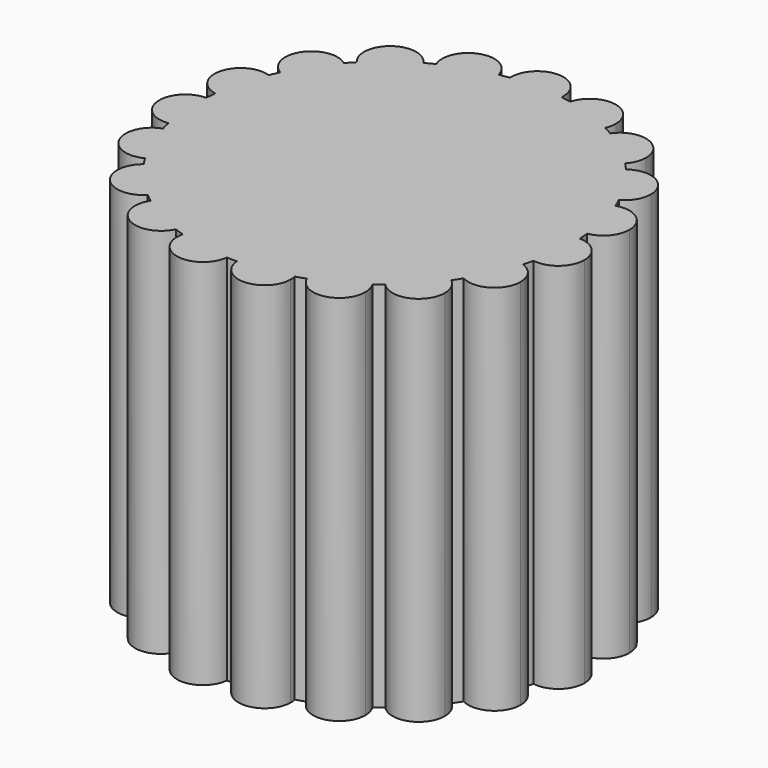
from build123d import *

# Parameters (mm, degrees)
F1_DEPTH = 100


with BuildPart() as f1:
    # F0 (on Top) → F1 (new body)
    with BuildSketch(Plane.XY):
        with BuildLine():
            ThreePointArc((49.2884179596, -11.5958340243), (50.2965501676, -5.8368272994), (50.6340943603, 0))
            ThreePointArc((50.6340943603, 0), (50.6207684627, 1.161598866), (50.5807977844, 2.3225863122))
            ThreePointArc((50.5807977844, 2.3225863122), (43.4412919228, -4.0336940461), (49.2884179596, -11.5958340243))
        make_face()
        with BuildLine():
            ThreePointArc((50.5807977844, 2.3225863122), (50.6207684627, 1.161598866), (50.6340943603, 0))
            ThreePointArc((50.6340943603, 0), (50.2965501676, -5.8368272994), (49.2884179596, -11.5958340243))
            ThreePointArc((49.2884179596, -11.5958340243), (54.9545502266, -10.0195708321), (57.4231482248, -4.6814359106))
            ThreePointArc((57.4231482248, -4.6814359106), (55.4286593665, 0.2143297815), (50.5807977844, 2.3225863122))
        make_face()
        with BuildLine():
            ThreePointArc((49.2884179596, -11.5958340243), (43.4412919228, -4.0336940461), (50.5807977844, 2.3225863122))
            ThreePointArc((50.5807977844, 2.3225863122), (50.5001299163, 3.6808137845), (50.382996675, 5.0363833974))
            ThreePointArc((50.382996675, 5.0363833974), (42.397261218, 10.2902270524), (47.0860481007, 18.6203003719))
            ThreePointArc((47.0860481007, 18.6203003719), (46.5687353009, 19.8787425195), (46.017795928, 21.1228305304))
            ThreePointArc((46.017795928, 21.1228305304), (36.758829399, 23.4990423804), (38.48879449, 32.9002159627))
            ThreePointArc((38.48879449, 32.9002159627), (37.5908956273, 33.922501052), (36.6658529524, 34.9202912209))
            ThreePointArc((36.6658529524, 34.9202912209), (27.1370080426, 34.1613718412), (25.7206827811, 43.6148826544))
            ThreePointArc((25.7206827811, 43.6148826544), (24.5394991296, 44.2902302337), (23.3405958801, 44.9335965136))
            ThreePointArc((23.3405958801, 44.9335965136), (14.5744707907, 41.1217865948), (10.1653359954, 49.6032000559))
            ThreePointArc((10.1653359954, 49.6032000559), (8.8288671316, 49.8584257358), (7.4860230776, 50.0776494073))
            ThreePointArc((7.4860230776, 50.0776494073), (0.4325634824, 43.6260177006), (-6.4915826769, 50.2162410584))
            ThreePointArc((-6.4915826769, 50.2162410584), (-7.838509614, 50.0236871763), (-9.179776483, 49.795011953))
            ThreePointArc((-9.179776483, 49.795011953), (-9.0146366457, 48.9300740554), (-8.959298633, 48.0512530059))
            ThreePointArc((-8.959298633, 48.0512530059), (-14.6076596491, 41.1781105865), (-22.4450376388, 45.3875731569))
            ThreePointArc((-22.4450376388, 45.3875731569), (-23.656462216, 44.7681059138), (-24.8508048228, 44.1163123044))
            ThreePointArc((-24.8508048228, 44.1163123044), (-23.9912589829, 42.2746668759), (-23.696474734, 40.263801594))
            ThreePointArc((-23.696474734, 40.263801594), (-28.2320691914, 33.7078487551), (-35.966224502, 35.6404574432))
            ThreePointArc((-35.966224502, 35.6404574432), (-36.910870069, 34.6612057267), (-37.8288628601, 33.6569256825))
            ThreePointArc((-37.8288628601, 33.6569256825), (-35.8238617515, 31.2012008735), (-35.1065686444, 28.1131425222))
            ThreePointArc((-35.1065686444, 28.1131425222), (-38.5967809177, 22.0532085671), (-45.5899128668, 22.0311451468))
            ThreePointArc((-45.5899128668, 22.0311451468), (-46.1654124189, 20.7982260752), (-46.7075766311, 19.5502889219))
            ThreePointArc((-46.7075766311, 19.5502889219), (-43.2644592903, 16.9970054766), (-41.9531196433, 12.9159882377))
            ThreePointArc((-41.9531196433, 12.9159882377), (-44.4938494078, 7.5173723677), (-50.2732267722, 6.0344164253))
            ThreePointArc((-50.2732267722, 6.0344164253), (-50.417216003, 4.6814359106), (-50.5247997315, 3.3250750026))
            ThreePointArc((-50.5247997315, 3.3250750026), (-45.5549175223, 1.2818428301), (-43.4941976945, -3.6808137845))
            ThreePointArc((-43.4941976945, -3.6808137845), (-45.2072440334, -8.2708514016), (-49.5086564873, -10.6162349495))
            ThreePointArc((-49.5086564873, -10.6162349495), (-49.2055319295, -11.9426604748), (-48.8668768079, -13.2604623871))
            ThreePointArc((-48.8668768079, -13.2604623871), (-42.5077955906, -14.1698148649), (-39.5628030791, -19.8787425195))
            ThreePointArc((-39.5628030791, -19.8787425195), (-40.5925421217, -23.5349976229), (-43.3790550661, -26.1164525397))
            ThreePointArc((-43.3790550661, -26.1164525397), (-42.6616649689, -27.2725842883), (-41.9134695345, -28.4090229199))
            ThreePointArc((-41.9134695345, -28.4090229199), (-34.5250004498, -27.6230270218), (-30.5849634055, -33.922501052))
            ThreePointArc((-30.5849634055, -33.922501052), (-31.0944101229, -36.5452405336), (-32.548659933, -38.7865472586))
            ThreePointArc((-32.548659933, -38.7865472586), (-31.494744645, -39.6471004164), (-30.4180874825, -40.4790250079))
            ThreePointArc((-30.4180874825, -40.4790250079), (-22.5522781132, -37.5720430579), (-17.5335669078, -44.2902302337))
            ThreePointArc((-17.5335669078, -44.2902302337), (-17.6999284896, -45.8079125974), (-18.1911124518, -47.2535177468))
            ThreePointArc((-18.1911124518, -47.2535177468), (-16.9148800475, -47.7252380262), (-15.6264336665, -48.1624966395))
            ThreePointArc((-15.6264336665, -48.1624966395), (-7.9745264854, -42.9047800477), (-1.8229349098, -49.8584257358))
            ThreePointArc((-1.8229349098, -49.8584257358), (-1.8327770136, -50.229652563), (-1.8622756721, -50.5998363733))
            ThreePointArc((-1.8622756721, -50.5998363733), (-0.5020257355, -50.6316055626), (0.8585867063, -50.6268144421))
            ThreePointArc((0.8585867063, -50.6268144421), (6.7539426287, -43.1022132906), (14.6683675727, -48.4628775913))
            ThreePointArc((14.6683675727, -48.4628775913), (15.9652308548, -48.0512530059), (17.2505658872, -47.6049313439))
            ThreePointArc((17.2505658872, -47.6049313439), (20.3832611647, -38.5738148991), (29.6094655879, -41.0742140434))
            ThreePointArc((29.6094655879, -41.0742140434), (30.7024069558, -40.263801594), (31.7731785841, -39.424315268))
            ThreePointArc((31.7731785841, -39.424315268), (31.8037370746, -29.8653451289), (41.3419185685, -29.2345220717))
            ThreePointArc((41.3419185685, -29.2345220717), (42.1125008662, -28.1131425222), (42.8526743697, -26.9714629015))
            ThreePointArc((42.8526743697, -26.9714629015), (39.7777845866, -17.9205018054), (48.5943331862, -14.2268160132))
            ThreePointArc((48.5943331862, -14.2268160132), (48.9590518651, -12.9159882377), (49.2884179596, -11.5958340243))
        make_face()
        with BuildLine():
            ThreePointArc((47.0860481007, 18.6203003719), (42.397261218, 10.2902270524), (50.382996675, 5.0363833974))
            ThreePointArc((50.382996675, 5.0363833974), (49.2055319295, 11.9426604748), (47.0860481007, 18.6203003719))
        make_face()
        with BuildLine():
            ThreePointArc((47.0860481007, 18.6203003719), (49.2055319295, 11.9426604748), (50.382996675, 5.0363833974))
            ThreePointArc((50.382996675, 5.0363833974), (54.5596109585, 7.4241514233), (56.2114641513, 11.9426604748))
            ThreePointArc((56.2114641513, 11.9426604748), (53.3428091892, 17.5965107711), (47.0860481007, 18.6203003719))
        make_face()
        with BuildLine():
            ThreePointArc((53.1713446407, -20.7982260752), (51.914322775, -16.7940887131), (48.5943331862, -14.2268160132))
            ThreePointArc((48.5943331862, -14.2268160132), (46.1654124189, -20.7982260752), (42.8526743697, -26.9714629015))
            ThreePointArc((42.8526743697, -26.9714629015), (49.7622351874, -26.8103764616), (53.1713446407, -20.7982260752))
        make_face()
        with BuildLine():
            ThreePointArc((42.8526743697, -26.9714629015), (46.1654124189, -20.7982260752), (48.5943331862, -14.2268160132))
            ThreePointArc((48.5943331862, -14.2268160132), (39.7777845866, -17.9205018054), (42.8526743697, -26.9714629015))
        make_face()
        with BuildLine():
            ThreePointArc((38.48879449, 32.9002159627), (36.758829399, 23.4990423804), (46.017795928, 21.1228305304))
            ThreePointArc((46.017795928, 21.1228305304), (42.6616649689, 27.2725842883), (38.48879449, 32.9002159627))
        make_face()
        with BuildLine():
            ThreePointArc((38.48879449, 32.9002159627), (42.6616649689, 27.2725842883), (46.017795928, 21.1228305304))
            ThreePointArc((46.017795928, 21.1228305304), (48.6864434845, 23.696954255), (49.6675971907, 27.2725842883))
            ThreePointArc((49.6675971907, 27.2725842883), (45.8119219863, 33.5302968912), (38.48879449, 32.9002159627))
        make_face()
        with BuildLine():
            ThreePointArc((43.9168022908, -34.6612057267), (43.2404321295, -31.6579191239), (41.3419185685, -29.2345220717))
            ThreePointArc((41.3419185685, -29.2345220717), (36.910870069, -34.6612057267), (31.7731785841, -39.424315268))
            ThreePointArc((31.7731785841, -39.424315268), (39.4690694335, -41.183375788), (43.9168022908, -34.6612057267))
        make_face()
        with BuildLine():
            ThreePointArc((31.7731785841, -39.424315268), (36.910870069, -34.6612057267), (41.3419185685, -29.2345220717))
            ThreePointArc((41.3419185685, -29.2345220717), (31.8037370746, -29.8653451289), (31.7731785841, -39.424315268))
        make_face()
        with BuildLine():
            ThreePointArc((25.7206827811, 43.6148826544), (27.1370080426, 34.1613718412), (36.6658529524, 34.9202912209))
            ThreePointArc((36.6658529524, 34.9202912209), (31.494744645, 39.6471004164), (25.7206827811, 43.6148826544))
        make_face()
        with BuildLine():
            ThreePointArc((25.7206827811, 43.6148826544), (31.494744645, 39.6471004164), (36.6658529524, 34.9202912209))
            ThreePointArc((36.6658529524, 34.9202912209), (38.0258823947, 37.1118832675), (38.5006768668, 39.6471004164))
            ThreePointArc((38.5006768668, 39.6471004164), (33.5720506207, 46.3379812388), (25.7206827811, 43.6148826544))
        make_face()
        with BuildLine():
            ThreePointArc((30.6623944378, -44.7681059138), (30.3940220279, -42.8475918997), (29.6094655879, -41.0742140434))
            ThreePointArc((29.6094655879, -41.0742140434), (23.656462216, -44.7681059138), (17.2505658872, -47.6049313439))
            ThreePointArc((17.2505658872, -47.6049313439), (25.1062571665, -51.6223878527), (30.6623944378, -44.7681059138))
        make_face()
        with BuildLine():
            ThreePointArc((17.2505658872, -47.6049313439), (23.656462216, -44.7681059138), (29.6094655879, -41.0742140434))
            ThreePointArc((29.6094655879, -41.0742140434), (20.3832611647, -38.5738148991), (17.2505658872, -47.6049313439))
        make_face()
        with BuildLine():
            ThreePointArc((10.1653359954, 49.6032000559), (14.5744707907, 41.1217865948), (23.3405958801, 44.9335965136))
            ThreePointArc((23.3405958801, 44.9335965136), (16.9148800475, 47.7252380262), (10.1653359954, 49.6032000559))
        make_face()
        with BuildLine():
            ThreePointArc((10.1653359954, 49.6032000559), (16.9148800475, 47.7252380262), (23.3405958801, 44.9335965136))
            ThreePointArc((23.3405958801, 44.9335965136), (23.7742246188, 46.2995878769), (23.9208122693, 47.7252380262))
            ThreePointArc((23.9208122693, 47.7252380262), (17.8625714897, 54.6667772811), (10.1653359954, 49.6032000559))
        make_face()
        with BuildLine():
            ThreePointArc((14.8444418358, -50.0236871763), (14.8002841091, -49.2383323669), (14.6683675727, -48.4628775913))
            ThreePointArc((14.6683675727, -48.4628775913), (7.838509614, -50.0236871763), (0.8585867063, -50.6268144421))
            ThreePointArc((0.8585867063, -50.6268144421), (8.1403535237, -57.0231140493), (14.8444418358, -50.0236871763))
        make_face()
        with BuildLine():
            ThreePointArc((0.8585867063, -50.6268144421), (7.838509614, -50.0236871763), (14.6683675727, -48.4628775913))
            ThreePointArc((14.6683675727, -48.4628775913), (6.7539426287, -43.1022132906), (0.8585867063, -50.6268144421))
        make_face()
        with BuildLine():
            ThreePointArc((-6.4915826769, 50.2162410584), (0.4325634824, 43.6260177006), (7.4860230776, 50.0776494073))
            ThreePointArc((7.4860230776, 50.0776494073), (0.5020257355, 50.6316055626), (-6.4915826769, 50.2162410584))
        make_face()
        with BuildLine():
            ThreePointArc((-6.4915826769, 50.2162410584), (0.5020257355, 50.6316055626), (7.4860230776, 50.0776494073))
            ThreePointArc((7.4860230776, 50.0776494073), (7.5024720895, 50.3544104324), (7.5079579573, 50.6316055626))
            ThreePointArc((7.5079579573, 50.6316055626), (0.294252092, 57.6344561543), (-6.4915826769, 50.2162410584))
        make_face()
        with BuildLine():
            ThreePointArc((-15.6264336665, -48.1624966395), (-10.0504638739, -56.7570333994), (-1.8622756721, -50.5998363733))
            ThreePointArc((-1.8622756721, -50.5998363733), (-8.8288671316, -49.8584257358), (-15.6264336665, -48.1624966395))
        make_face()
        with BuildLine():
            ThreePointArc((-15.6264336665, -48.1624966395), (-8.8288671316, -49.8584257358), (-1.8622756721, -50.5998363733))
            ThreePointArc((-1.8622756721, -50.5998363733), (-1.8327770136, -50.229652563), (-1.8229349098, -49.8584257358))
            ThreePointArc((-1.8229349098, -49.8584257358), (-7.9745264854, -42.9047800477), (-15.6264336665, -48.1624966395))
        make_face()
        with BuildLine():
            ThreePointArc((-8.959298633, 48.0512530059), (-9.0146366457, 48.9300740554), (-9.179776483, 49.795011953))
            ThreePointArc((-9.179776483, 49.795011953), (-15.9652308548, 48.0512530059), (-22.4450376388, 45.3875731569))
            ThreePointArc((-22.4450376388, 45.3875731569), (-14.6076596491, 41.1781105865), (-8.959298633, 48.0512530059))
        make_face()
        with BuildLine():
            ThreePointArc((-22.4450376388, 45.3875731569), (-15.9652308548, 48.0512530059), (-9.179776483, 49.795011953))
            ThreePointArc((-9.179776483, 49.795011953), (-18.1742429184, 54.6998131507), (-22.4450376388, 45.3875731569))
        make_face()
        with BuildLine():
            ThreePointArc((-30.4180874825, -40.4790250079), (-27.9348806374, -50.4184004918), (-18.1911124518, -47.2535177468))
            ThreePointArc((-18.1911124518, -47.2535177468), (-24.5394991296, -44.2902302337), (-30.4180874825, -40.4790250079))
        make_face()
        with BuildLine():
            ThreePointArc((-30.4180874825, -40.4790250079), (-24.5394991296, -44.2902302337), (-18.1911124518, -47.2535177468))
            ThreePointArc((-18.1911124518, -47.2535177468), (-17.6999284896, -45.8079125974), (-17.5335669078, -44.2902302337))
            ThreePointArc((-17.5335669078, -44.2902302337), (-22.5522781132, -37.5720430579), (-30.4180874825, -40.4790250079))
        make_face()
        with BuildLine():
            ThreePointArc((-23.696474734, 40.263801594), (-23.9912589829, 42.2746668759), (-24.8508048228, 44.1163123044))
            ThreePointArc((-24.8508048228, 44.1163123044), (-30.7024069558, 40.263801594), (-35.966224502, 35.6404574432))
            ThreePointArc((-35.966224502, 35.6404574432), (-28.2320691914, 33.7078487551), (-23.696474734, 40.263801594))
        make_face()
        with BuildLine():
            ThreePointArc((-35.966224502, 35.6404574432), (-30.7024069558, 40.263801594), (-24.8508048228, 44.1163123044))
            ThreePointArc((-24.8508048228, 44.1163123044), (-34.9505126027, 45.8348593669), (-35.966224502, 35.6404574432))
        make_face()
        with BuildLine():
            ThreePointArc((-41.9134695345, -28.4090229199), (-42.7921196296, -38.6161515688), (-32.548659933, -38.7865472586))
            ThreePointArc((-32.548659933, -38.7865472586), (-37.5908956273, -33.922501052), (-41.9134695345, -28.4090229199))
        make_face()
        with BuildLine():
            ThreePointArc((-41.9134695345, -28.4090229199), (-37.5908956273, -33.922501052), (-32.548659933, -38.7865472586))
            ThreePointArc((-32.548659933, -38.7865472586), (-31.0944101229, -36.5452405336), (-30.5849634055, -33.922501052))
            ThreePointArc((-30.5849634055, -33.922501052), (-34.5250004498, -27.6230270218), (-41.9134695345, -28.4090229199))
        make_face()
        with BuildLine():
            ThreePointArc((-35.1065686444, 28.1131425222), (-35.8238617515, 31.2012008735), (-37.8288628601, 33.6569256825))
            ThreePointArc((-37.8288628601, 33.6569256825), (-42.1125008662, 28.1131425222), (-45.5899128668, 22.0311451468))
            ThreePointArc((-45.5899128668, 22.0311451468), (-38.5967809177, 22.0532085671), (-35.1065686444, 28.1131425222))
        make_face()
        with BuildLine():
            ThreePointArc((-45.5899128668, 22.0311451468), (-42.1125008662, 28.1131425222), (-37.8288628601, 33.6569256825))
            ThreePointArc((-37.8288628601, 33.6569256825), (-47.9393519334, 32.0029873696), (-45.5899128668, 22.0311451468))
        make_face()
        with BuildLine():
            ThreePointArc((-48.8668768079, -13.2604623871), (-53.0121684717, -22.6292434321), (-43.3790550661, -26.1164525397))
            ThreePointArc((-43.3790550661, -26.1164525397), (-46.5687353009, -19.8787425195), (-48.8668768079, -13.2604623871))
        make_face()
        with BuildLine():
            ThreePointArc((-48.8668768079, -13.2604623871), (-46.5687353009, -19.8787425195), (-43.3790550661, -26.1164525397))
            ThreePointArc((-43.3790550661, -26.1164525397), (-40.5925421217, -23.5349976229), (-39.5628030791, -19.8787425195))
            ThreePointArc((-39.5628030791, -19.8787425195), (-42.5077955906, -14.1698148649), (-48.8668768079, -13.2604623871))
        make_face()
        with BuildLine():
            ThreePointArc((-41.9531196433, 12.9159882377), (-43.2644592903, 16.9970054766), (-46.7075766311, 19.5502889219))
            ThreePointArc((-46.7075766311, 19.5502889219), (-48.9590518651, 12.9159882377), (-50.2732267722, 6.0344164253))
            ThreePointArc((-50.2732267722, 6.0344164253), (-44.4938494078, 7.5173723677), (-41.9531196433, 12.9159882377))
        make_face()
        with BuildLine():
            ThreePointArc((-50.2732267722, 6.0344164253), (-48.9590518651, 12.9159882377), (-46.7075766311, 19.5502889219))
            ThreePointArc((-46.7075766311, 19.5502889219), (-55.7332186265, 14.7030951133), (-50.2732267722, 6.0344164253))
        make_face()
        with BuildLine():
            ThreePointArc((-50.5247997315, 3.3250750026), (-57.4875262914, -4.1901056405), (-49.5086564873, -10.6162349495))
            ThreePointArc((-49.5086564873, -10.6162349495), (-50.5001299163, -3.6808137845), (-50.5247997315, 3.3250750026))
        make_face()
        with BuildLine():
            ThreePointArc((-50.5247997315, 3.3250750026), (-50.5001299163, -3.6808137845), (-49.5086564873, -10.6162349495))
            ThreePointArc((-49.5086564873, -10.6162349495), (-45.2072440334, -8.2708514016), (-43.4941976945, -3.6808137845))
            ThreePointArc((-43.4941976945, -3.6808137845), (-45.5549175223, 1.2818428301), (-50.5247997315, 3.3250750026))
        make_face()
    extrude(amount=F1_DEPTH)


solid = f1.part
